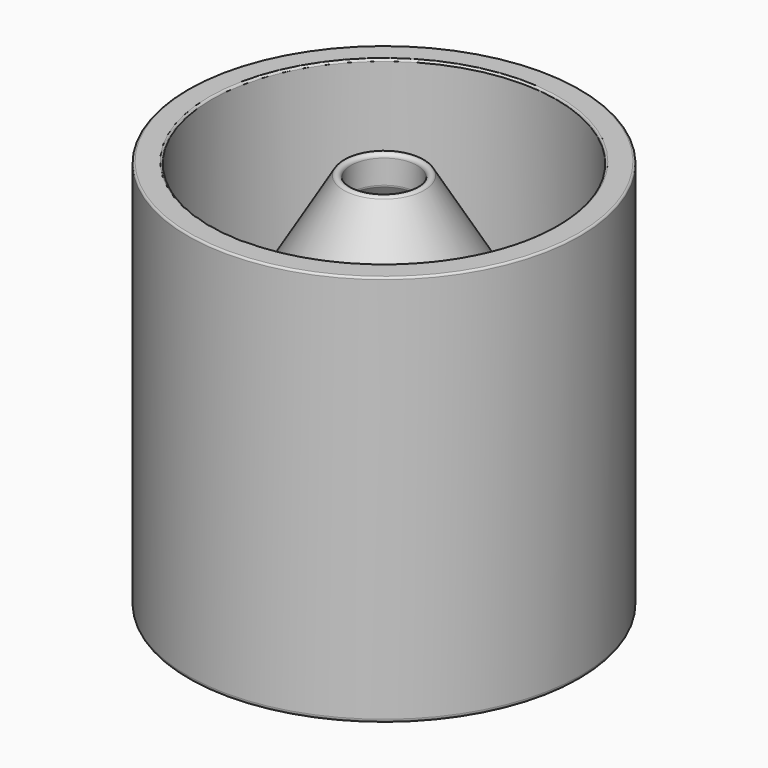
from build123d import *


with BuildPart() as f1:
    # F0 (on Front) → F1 (revolve)
    with BuildSketch(Plane.XZ):
        with BuildLine():
            Line((-25, 49.75), (-25, 0.5))
            ThreePointArc((-25, 0.5), (-24.853553, 0.146447), (-24.5, 0))
            Line((-24.5, 0), (0, 0))
            Line((0, 0), (0, 3))
            Line((0, 3), (-21.5, 3))
            ThreePointArc((-21.5, 3), (-21.853553, 3.146447), (-22, 3.5))
            Line((-22, 3.5), (-22, 14.972575))
            ThreePointArc((-22, 14.972575), (-21.982089, 15.105205), (-21.929638, 15.228332))
            Line((-21.929638, 15.228332), (-4.277392, 44.881801))
            ThreePointArc((-4.277392, 44.881801), (-4.224941, 45.004928), (-4.207029, 45.137557))
            Line((-4.207029, 45.137557), (-4.207029, 48.176818))
            ThreePointArc((-4.207029, 48.176818), (-4.574789, 48.659014), (-5.13708, 48.43188))
            Line((-5.13708, 48.43188), (-21.81399, 20.313624))
            ThreePointArc((-21.81399, 20.313624), (-21.926448, 20.268197), (-22, 20.364636))
            Line((-22, 20.364636), (-22, 49.75))
            ThreePointArc((-22, 49.75), (-22.073223, 49.926777), (-22.25, 50))
            Line((-22.25, 50), (-24.75, 50))
            ThreePointArc((-24.75, 50), (-24.926777, 49.926777), (-25, 49.75))
        make_face()
    revolve(axis=Axis((0, 0, 1.5), (0, 0, -1)))


solid = f1.part
